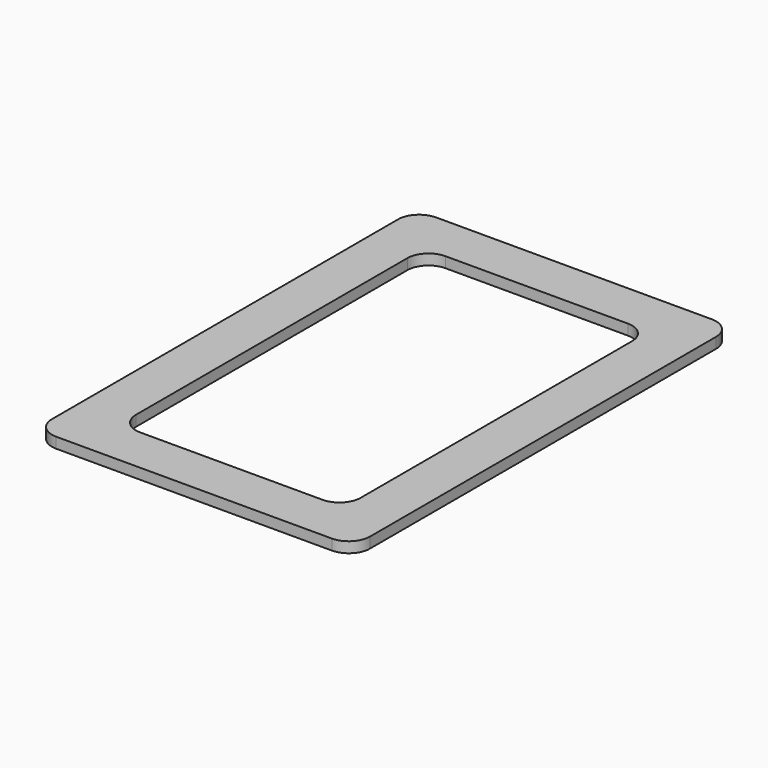
from build123d import *

# Parameters (mm, degrees)
F1_DEPTH = 25
F3_DEPTH = 25


with BuildPart() as f1:
    # F0 (on Top) → F1 (new body)
    with BuildSketch(Plane.XY):
        with BuildLine():
            Line((325, 560), (-325, 560))
            ThreePointArc((-325, 560), (-360.355339, 545.355339), (-375, 510))
            Line((-375, 510), (-375, -510))
            ThreePointArc((-375, -510), (-360.355339, -545.355339), (-325, -560))
            Line((-325, -560), (325, -560))
            ThreePointArc((325, -560), (360.355339, -545.355339), (375, -510))
            Line((375, -510), (375, 510))
            ThreePointArc((375, 510), (360.355339, 545.355339), (325, 560))
        make_face()
    extrude(amount=F1_DEPTH)

    # F2 (on face) → F3 (cut)
    with BuildSketch(Plane.XY.offset(25)):
        with BuildLine():
            Line((215, 450), (-215, 450))
            ThreePointArc((-215, 450), (-250.355339, 435.355339), (-265, 400))
            Line((-265, 400), (-265, -400))
            ThreePointArc((-265, -400), (-250.355339, -435.355339), (-215, -450))
            Line((-215, -450), (215, -450))
            ThreePointArc((215, -450), (250.355339, -435.355339), (265, -400))
            Line((265, -400), (265, 400))
            ThreePointArc((265, 400), (250.355339, 435.355339), (215, 450))
        make_face()
    extrude(amount=-F3_DEPTH, mode=Mode.SUBTRACT)


solid = f1.part
